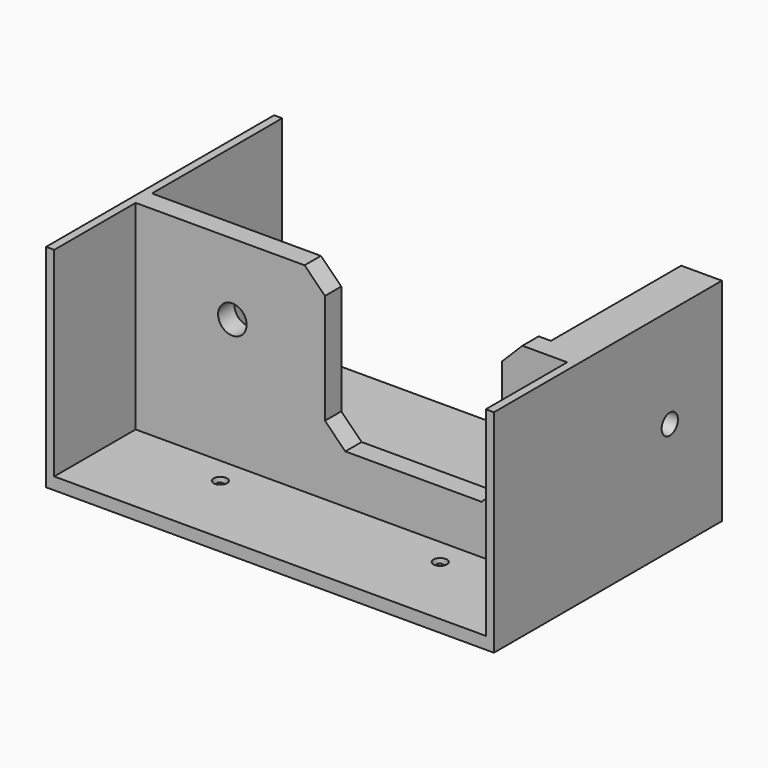
from build123d import *

# Parameters (mm, degrees)
SKETCH_W             = 110
SKETCH_H             = 70
PAD_DEPTH            = 3
SKETCH001_W          = 2
SKETCH001_H          = 52
PAD001_DEPTH         = 35
SKETCH002_W          = 10
SKETCH002_H          = 45
PAD002_DEPTH         = 52
SKETCH003_W          = 110
SKETCH003_H          = 5
PAD003_DEPTH         = 52
SKETCH004_R          = 3.5
SKETCH004_W          = 43.5
SKETCH004_H          = 37
POCKET_DEPTH         = 5
SKETCH005_R          = 2.5
POCKET001_DEPTH      = 10
SKETCH006_R          = 6
POCKET002_DEPTH      = 5
SKETCH011_R          = 6
POCKET003_DEPTH      = 150
SKETCH007_R          = 1.65
POCKET004_DEPTH      = 5
POCKET005_DEPTH      = 1.4
SKETCH009_W          = 3.3
SKETCH009_H          = 5.715768
POCKET006_DEPTH      = 0.2
SKETCH010_W          = 3.3
SKETCH010_H          = 3.3
POCKET007_DEPTH      = 0.2
CHAMFER_SIZE         = 5
POCKET012_DEPTH      = 5
BODY_PLACEMENT_ANGLE = 90


with BuildPart() as part:
    # Sketch → Pad (new body)
    with BuildSketch(Plane.XZ):
        Rectangle(SKETCH_W, SKETCH_H)
    extrude(amount=PAD_DEPTH)

    # Sketch001 → Pad001 (join, symmetric)
    with BuildSketch(Plane.XY):
        with Locations((54, -26)):
            Rectangle(SKETCH001_W, SKETCH001_H)
        with Locations((-54, -26)):
            Rectangle(SKETCH001_W, SKETCH001_H)
    extrude(amount=PAD001_DEPTH, both=True)

    # Sketch002 → Pad002 (join)
    with BuildSketch(Plane.XZ):
        with Locations((50, 12.5)):
            Rectangle(SKETCH002_W, SKETCH002_H)
    extrude(amount=PAD002_DEPTH)

    # Sketch003 → Pad003 (join)
    with BuildSketch(Plane.XZ):
        with Locations((0, -7.5)):
            Rectangle(SKETCH003_W, SKETCH003_H)
    extrude(amount=PAD003_DEPTH)

    # Sketch004 (on Face19 of Pad003) → Pocket (cut)
    with BuildSketch(Plane(origin=(0, 0, -5), x_dir=(-1, 0, 0), z_dir=(0, 0, 1))):
        with Locations((29.25, 34.5)):
            Circle(SKETCH004_R)
        with Locations((-15.25, 33.5)):
            Rectangle(SKETCH004_W, SKETCH004_H)
    extrude(amount=-POCKET_DEPTH, mode=Mode.SUBTRACT)

    # Sketch005 (on Face20 of Pocket) → Pocket001 (cut)
    with BuildSketch(Plane(origin=(45, 0, 0), x_dir=(0, 0, -1), z_dir=(-1, 0, 0))):
        with Locations((-19, 27.5)):
            Circle(SKETCH005_R)
    extrude(amount=-POCKET001_DEPTH, mode=Mode.SUBTRACT)

    # Sketch006 (on Face20 of Pocket001) → Pocket002 (cut)
    with BuildSketch(Plane(origin=(45, 0, 0), x_dir=(0, 0, -1), z_dir=(-1, 0, 0))):
        with Locations((-19, 27.5)):
            Circle(SKETCH006_R)
    extrude(amount=-POCKET002_DEPTH, mode=Mode.SUBTRACT)

    # Sketch011 (on Face20 of Pocket002) → Pocket003 (cut)
    with BuildSketch(Plane(origin=(45, 0, 0), x_dir=(0, 0, -1), z_dir=(-1, 0, 0))):
        with Locations((-19, 27.5)):
            Circle(SKETCH011_R)
    extrude(amount=POCKET003_DEPTH, mode=Mode.SUBTRACT)

    # Sketch007 → Pocket004 (cut)
    with BuildSketch(Plane.XZ):
        with Locations((-27, -16.5)):
            Circle(SKETCH007_R)
        with Locations((27, -16.5)):
            Circle(SKETCH007_R)
    extrude(amount=POCKET004_DEPTH, mode=Mode.SUBTRACT)

    # Sketch008 → Pocket005 (cut)
    with BuildSketch(Plane.XZ):
        Polygon((-25.35, -13.642116), (-28.65, -13.642116), (-30.3, -16.5), (-28.65, -19.357884), (-25.35, -19.357884), (-23.7, -16.5), align=None)
        Polygon((30.3, -16.5), (28.65, -13.642116), (25.35, -13.642116), (23.7, -16.5), (25.35, -19.357884), (28.65, -19.357884), align=None)
    extrude(amount=POCKET005_DEPTH, mode=Mode.SUBTRACT)

    # Sketch009 (on Face67 of Pocket005) → Pocket006 (cut)
    with BuildSketch(Plane(origin=(0, -1.4, 0), x_dir=(1, 0, 0), z_dir=(0, 1, 0))):
        with Locations((-27, 16.5)):
            Rectangle(SKETCH009_W, SKETCH009_H)
        with Locations((27, 16.5)):
            Rectangle(SKETCH009_W, SKETCH009_H)
    extrude(amount=-POCKET006_DEPTH, mode=Mode.SUBTRACT)

    # Sketch010 (on Face95 of Pocket006) → Pocket007 (cut)
    with BuildSketch(Plane(origin=(0, -1.6, 0), x_dir=(1, 0, 0), z_dir=(0, 1, 0))):
        with Locations((27, 16.5)):
            Rectangle(SKETCH010_W, SKETCH010_H)
        with Locations((-27, 16.5)):
            Rectangle(SKETCH010_W, SKETCH010_H)
    extrude(amount=-POCKET007_DEPTH, mode=Mode.SUBTRACT)

    # Chamfer
    chamfer_edges = [part.edges().sort_by_distance(p)[0] for p in [
        (-6.5, -52, -7.5),
        (37, -52, -7.5),
        (-6.5, -15, -7.5),
        (37, -15, -7.5),
    ]]
    chamfer(chamfer_edges, length=CHAMFER_SIZE)

    # Sketch018 → Pocket012 (cut)
    with BuildSketch(Plane.XZ):
        with BuildLine():
            ThreePointArc((-1.5, 9), (-6.5, 4), (-1.5, -1))
            Line((-1.5, -1), (32, -1))
            ThreePointArc((32, -1), (37, 4), (32, 9))
            Line((-1.5, 9), (32, 9))
        make_face()
    extrude(amount=POCKET012_DEPTH, mode=Mode.SUBTRACT)


with BuildPart() as part_1:
    # Body placement: moved
    add(part.part.moved(Location((-112, 118, -67.5))).rotate(Axis((-112, 118, -67.5), (-1, 0, 0)), BODY_PLACEMENT_ANGLE))


solid = part_1.part
